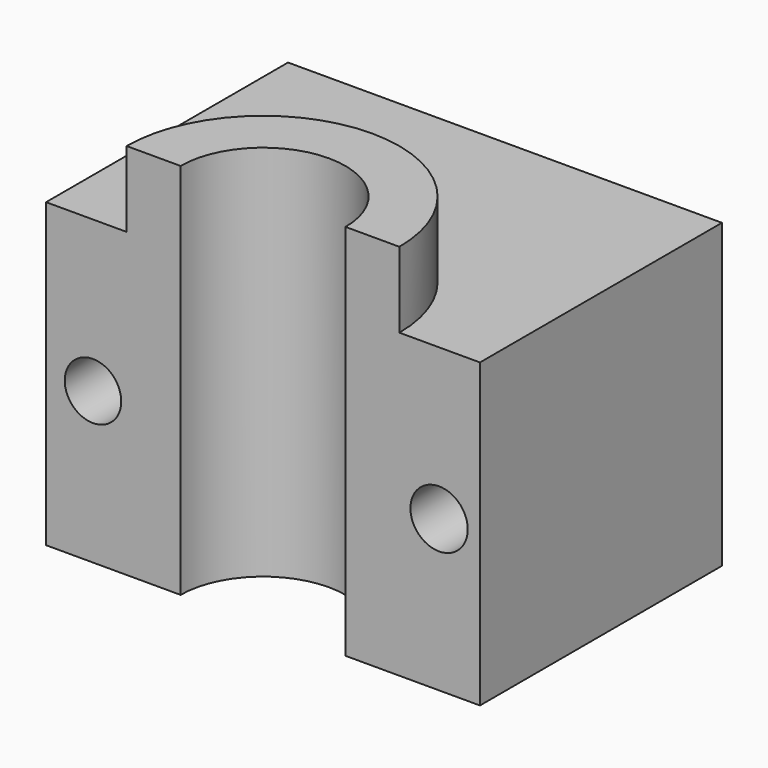
from build123d import *

# Parameters (mm, degrees)
F0_W     = 145.7543373108
F0_H     = 101.455360651
F1_DEPTH = 101.6
F4_DEPTH = 25.4
F5_R     = 27.7028558339
F6_DEPTH = 127
F7_R     = 9.4879740748
F7_R_2   = 9.6289901624
F8_DEPTH = 152.4


with BuildPart() as f1:
    # F0 (on Front) → F1 (new body)
    with BuildSketch(Plane.XZ):
        Rectangle(F0_W, F0_H)
    extrude(amount=F1_DEPTH)

    # F3 (on face) + F2 (on face) → F4 (join)
    with BuildSketch(Plane.XY.offset(50.7276803255)):
        with BuildLine():
            Line((-45.8042988354, -101.6), (45.8042988354, -101.6))
            ThreePointArc((45.8042988354, -101.6), (0, -55.7957011646), (-45.8042988354, -101.6))
        make_face()
    with BuildSketch(Plane(origin=(0, 0, -50.7276803255), x_dir=(1, 0, 0), z_dir=(0, 0, -1))):
        with BuildLine():
            ThreePointArc((-46.1219863385, 101.6), (0, 55.4780136615), (46.1219863385, 101.6))
            Line((46.1219863385, 101.6), (-46.1219863385, 101.6))
        make_face()
    extrude(amount=F4_DEPTH, dir=(0, 0, 1))

    # F5 (on face) → F6 (cut)
    with BuildSketch(Plane(origin=(0, 0, -50.7276803255), x_dir=(1, 0, 0), z_dir=(0, 0, -1))):
        with Locations((0, 101.6)):
            Circle(F5_R)
    extrude(amount=-F6_DEPTH, mode=Mode.SUBTRACT)

    # F7 (on face) → F8 (cut)
    with BuildSketch(Plane.XZ.offset(101.6)):
        with Locations((-57.1189150214, 0)):
            Circle(F7_R)
        with Locations((59.1401457787, 0)):
            Circle(F7_R_2)
    extrude(amount=-F8_DEPTH, mode=Mode.SUBTRACT)


solid = f1.part
